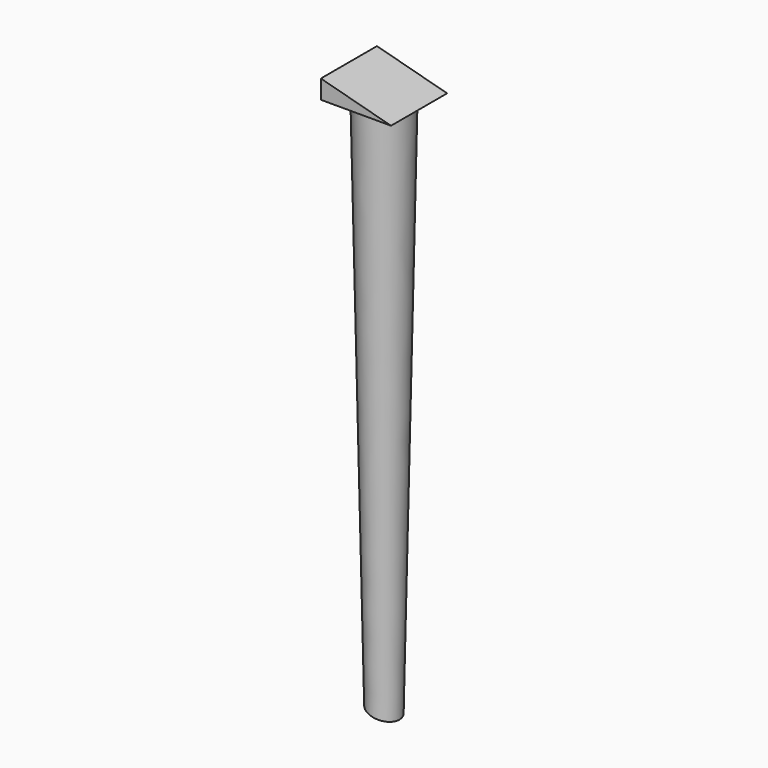
from build123d import *

# Parameters (mm, degrees)
F0_R     = 19.05
F2_R     = 11.1125
F5_DEPTH = 25.4
F7_DEPTH = 12.7


with BuildPart() as f3:
    # F0 (on Top) → F3 section 0
    with BuildSketch(Plane.XY):
        Circle(F0_R)
    # F2 (on offset) → F3 section 1
    with BuildSketch(Plane.XY.offset(-393.7)):
        Circle(F2_R)
    loft()

    # F6 (on Front) → F7 (cut, symmetric)
    with BuildSketch(Plane.XZ):
        Polygon((-14.2875, -386.8940905122), (-14.2875, -393.7), (11.1125, -393.7), align=None)
    extrude(amount=F7_DEPTH, both=True, mode=Mode.SUBTRACT)


with BuildPart() as f5:
    # F4 (on Front) → F5 (new body, symmetric)
    with BuildSketch(Plane.XZ):
        Polygon((-25.4, 0), (25.4, 0), (-25.4, 13.6118189755), align=None)
    extrude(amount=F5_DEPTH, both=True)


solid = Compound([f3.part, f5.part])
